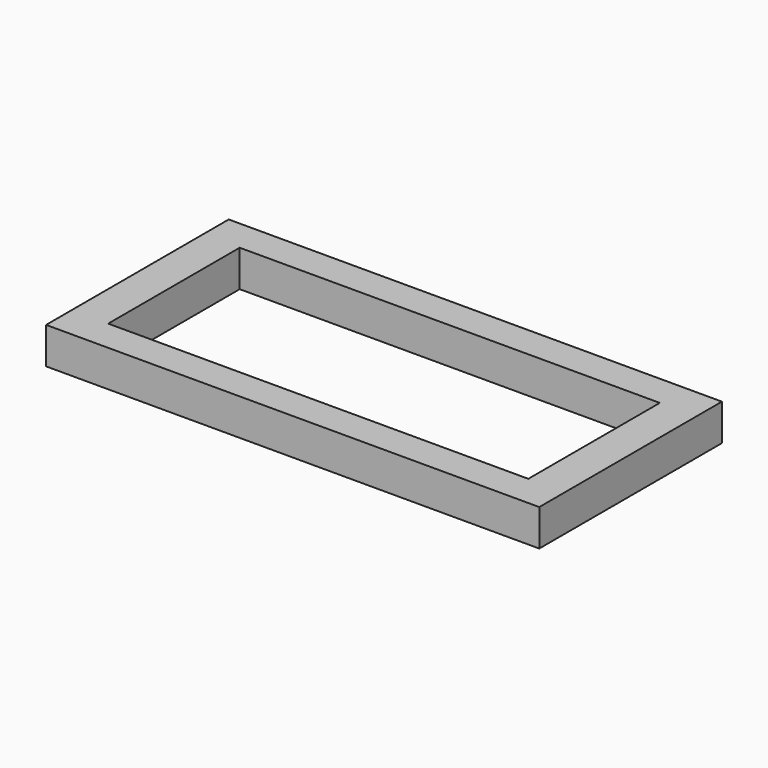
from build123d import *

# Parameters (mm, degrees)
SKETCH_W     = 23
SKETCH_H     = 9
PAD_DEPTH    = 30
SKETCH002_W  = 27
SKETCH002_H  = 12.5
PAD002_DEPTH = 2


with BuildPart() as display_hole_clone_body:
    # Sketch → Pad (new body)
    with BuildSketch(Plane.XY):
        with Locations((1.5, 0)):
            Rectangle(SKETCH_W, SKETCH_H)
    extrude(amount=PAD_DEPTH)


with BuildPart() as display_hole_clone_body_1:
    # Body placement: moved
    add(display_hole_clone_body.part.moved(Location((0, 0, -10))))


with BuildPart() as cut002:
    # Sketch002 → Pad002 (new body)
    with BuildSketch(Plane.XY):
        with Locations((1.5, 0)):
            Rectangle(SKETCH002_W, SKETCH002_H)
    extrude(amount=PAD002_DEPTH)

    # Cut002: cut display hole clone body
    add(display_hole_clone_body_1.part, mode=Mode.SUBTRACT)


solid = cut002.part
